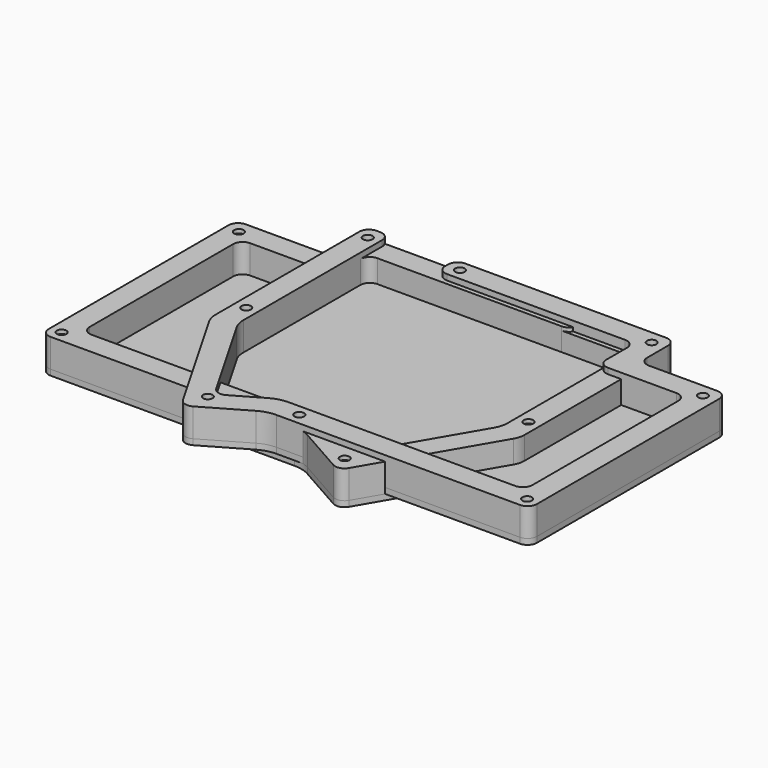
from build123d import *

# Parameters (mm, degrees)
EXTRUDE_DEPTH       = 13
SKETCH001_R         = 2.5
EXTRUDE001_DEPTH    = 3
SKETCH002_R         = 2.5
EXTRUDE002_DEPTH    = 15
MIRROREDSKETCH_R    = 2.5
EXTRUDE004_DEPTH    = 3
MIRROREDSKETCH001_R = 2.5
EXTRUDE005_DEPTH    = 15


with BuildPart() as extrude_body:
    # Sketch → Extrude (new body)
    with BuildSketch(Plane.XY):
        with BuildLine():
            Line((-130.49, 59.21), (-130.49, -59.21))
            ThreePointArc((-130.49, -59.21), (-129.025534, -62.745534), (-125.49, -64.21))
            Line((-125.49, -64.21), (2.885908, -64.21))
            ThreePointArc((11.622751, -66.512088), (7.403431, -64.795179), (2.885908, -64.21))
            Line((11.622751, -66.512088), (36.536967, -80.621035))
            ThreePointArc((36.536967, -80.621035), (40.306595, -81.096728), (43.3222, -78.785341))
            Line((43.3222, -78.785341), (79.515572, -16.598901))
            ThreePointArc((79.515572, -16.598901), (80.831144, -13.4462), (81.28, -10.059641))
            Line((81.28, -10.059641), (81.28, 81.44))
            ThreePointArc((81.28, 81.44), (79.815534, 84.975534), (76.28, 86.44))
            Line((76.28, 86.44), (-76.28, 86.44))
            ThreePointArc((-76.28, 86.44), (-79.815534, 84.975534), (-81.28, 81.44))
            Line((-81.28, 81.44), (-81.28, 69.21))
            ThreePointArc((-86.28, 64.21), (-82.744466, 65.674466), (-81.28, 69.21))
            Line((-86.28, 64.21), (-125.49, 64.21))
            ThreePointArc((-125.49, 64.21), (-129.025534, 62.745534), (-130.49, 59.21))
        make_face()
        with BuildLine():
            Line((69.28, 69.44), (69.28, -6.821793))
            ThreePointArc((67.515572, -13.361052), (68.831144, -10.208352), (69.28, -6.821793))
            Line((67.515572, -13.361052), (38.916228, -62.499646))
            ThreePointArc((32.130995, -64.335339), (35.900623, -64.811032), (38.916228, -62.499646))
            Line((14.784655, -54.512088), (32.130995, -64.335339))
            ThreePointArc((14.784655, -54.512088), (10.565334, -52.795179), (6.047812, -52.21))
            Line((-113.49, -52.21), (6.047812, -52.21))
            ThreePointArc((-118.49, -47.21), (-117.025534, -50.745534), (-113.49, -52.21))
            Line((-118.49, 47.21), (-118.49, -47.21))
            ThreePointArc((-113.49, 52.21), (-117.025534, 50.745534), (-118.49, 47.21))
            Line((-113.49, 52.21), (-74.28, 52.21))
            ThreePointArc((-74.28, 52.21), (-70.744466, 53.674466), (-69.28, 57.21))
            Line((-69.28, 69.44), (-69.28, 57.21))
            ThreePointArc((-64.28, 74.44), (-67.815534, 72.975534), (-69.28, 69.44))
            Line((-64.28, 74.44), (64.28, 74.44))
            ThreePointArc((69.28, 69.44), (67.815534, 72.975534), (64.28, 74.44))
        make_face(mode=Mode.SUBTRACT)
    extrude(amount=EXTRUDE_DEPTH)


with BuildPart() as extrude001:
    # Sketch001 → Extrude001 (new body)
    with BuildSketch(Plane.XY):
        with BuildLine():
            Line((-130.49, 59.21), (-130.49, -59.21))
            ThreePointArc((-130.49, -59.21), (-129.025534, -62.745534), (-125.49, -64.21))
            Line((-125.49, -64.21), (2.885908, -64.21))
            ThreePointArc((11.622751, -66.512088), (7.403431, -64.795179), (2.885908, -64.21))
            Line((11.622751, -66.512088), (36.536967, -80.621035))
            ThreePointArc((36.536967, -80.621035), (40.306595, -81.096728), (43.3222, -78.785341))
            Line((43.3222, -78.785341), (79.515572, -16.598901))
            ThreePointArc((79.515572, -16.598901), (80.831144, -13.4462), (81.28, -10.059641))
            Line((81.28, -10.059641), (81.28, 81.44))
            ThreePointArc((81.28, 81.44), (79.815534, 84.975534), (76.28, 86.44))
            Line((76.28, 86.44), (-76.28, 86.44))
            ThreePointArc((-76.28, 86.44), (-79.815534, 84.975534), (-81.28, 81.44))
            Line((-81.28, 81.44), (-81.28, 69.21))
            ThreePointArc((-86.28, 64.21), (-82.744466, 65.674466), (-81.28, 69.21))
            Line((-86.28, 64.21), (-125.49, 64.21))
            ThreePointArc((-125.49, 64.21), (-129.025534, 62.745534), (-130.49, 59.21))
        make_face()
        with Locations((-123.49, 57.21)):
            Circle(SKETCH001_R, mode=Mode.SUBTRACT)
        with Locations((-124.49, -58.21)):
            Circle(SKETCH001_R, mode=Mode.SUBTRACT)
        with Locations((-4.49, -58.21)):
            Circle(SKETCH001_R, mode=Mode.SUBTRACT)
        with Locations((36.585178, -73.175873)):
            Circle(SKETCH001_R, mode=Mode.SUBTRACT)
        with Locations((75.28, -0.56)):
            Circle(SKETCH001_R, mode=Mode.SUBTRACT)
        with Locations((75.28, 79.44)):
            Circle(SKETCH001_R, mode=Mode.SUBTRACT)
        with Locations((30.711217, 80.44)):
            Circle(SKETCH001_R, mode=Mode.SUBTRACT)
        with Locations((-74.28, 79.44)):
            Circle(SKETCH001_R, mode=Mode.SUBTRACT)
    extrude(amount=-EXTRUDE001_DEPTH)


with BuildPart() as extrude002:
    # Sketch002 → Extrude002 (new body)
    with BuildSketch(Plane.XY):
        with BuildLine():
            Line((69.28, 81.44), (69.28, -6.821793))
            ThreePointArc((67.515572, -13.361052), (68.831144, -10.208352), (69.28, -6.821793))
            Line((67.515572, -13.361052), (38.916228, -62.499646))
            ThreePointArc((32.130995, -64.335339), (35.900623, -64.811032), (38.916228, -62.499646))
            Line((14.784655, -54.512088), (32.130995, -64.335339))
            ThreePointArc((14.784655, -54.512088), (10.565334, -52.795179), (6.047812, -52.21))
            Line((-113.49, -52.21), (6.047812, -52.21))
            ThreePointArc((-118.49, -47.21), (-117.025534, -50.745534), (-113.49, -52.21))
            Line((-118.49, 47.21), (-118.49, -47.21))
            ThreePointArc((-113.49, 52.21), (-117.025534, 50.745534), (-118.49, 47.21))
            Line((-113.49, 52.21), (-74.28, 52.21))
            ThreePointArc((-74.28, 52.21), (-70.744466, 53.674466), (-69.28, 57.21))
            Line((-69.28, 69.44), (-69.28, 57.21))
            ThreePointArc((-64.28, 74.44), (-67.815534, 72.975534), (-69.28, 69.44))
            Line((-64.28, 74.44), (32.710022, 74.44))
            ThreePointArc((32.710022, 74.44), (36.245542, 75.904474), (37.71, 79.44))
            Line((37.71, 79.44), (37.71, 81.44))
            ThreePointArc((37.71, 81.44), (36.245534, 84.975534), (32.71, 86.44))
            Line((-76.28, 86.44), (32.71, 86.44))
            ThreePointArc((-76.28, 86.44), (-79.815534, 84.975534), (-81.28, 81.44))
            Line((-81.28, 81.44), (-81.28, 69.21))
            ThreePointArc((-86.28, 64.21), (-82.744466, 65.674466), (-81.28, 69.21))
            Line((-86.28, 64.21), (-125.49, 64.21))
            ThreePointArc((-125.49, 64.21), (-129.025534, 62.745534), (-130.49, 59.21))
            Line((-130.49, 59.21), (-130.49, -59.21))
            ThreePointArc((-130.49, -59.21), (-129.025534, -62.745534), (-125.49, -64.21))
            Line((-125.49, -64.21), (2.885908, -64.21))
            ThreePointArc((11.622751, -66.512088), (7.403431, -64.795179), (2.885908, -64.21))
            Line((11.622751, -66.512088), (36.536967, -80.621035))
            ThreePointArc((36.536967, -80.621035), (40.306595, -81.096728), (43.3222, -78.785341))
            Line((43.3222, -78.785341), (79.811267, -16.090847))
            ThreePointArc((79.811267, -16.090847), (80.906366, -13.466497), (81.28, -10.647479))
            Line((81.28, -10.647479), (81.28, 81.462521))
            ThreePointArc((81.28, 81.462521), (79.979333, 84.826289), (76.754025, 86.44))
            Line((76.754025, 86.44), (74.28, 86.44))
            ThreePointArc((74.28, 86.44), (70.744466, 84.975534), (69.28, 81.44))
        make_face()
        with Locations((75.28, 79.44)):
            Circle(SKETCH002_R, mode=Mode.SUBTRACT)
        with Locations((75.28, -0.56)):
            Circle(SKETCH002_R, mode=Mode.SUBTRACT)
        with Locations((36.585178, -73.175873)):
            Circle(SKETCH002_R, mode=Mode.SUBTRACT)
        with Locations((-124.49, -58.21)):
            Circle(SKETCH002_R, mode=Mode.SUBTRACT)
        with Locations((-4.49, -58.21)):
            Circle(SKETCH002_R, mode=Mode.SUBTRACT)
        with Locations((-123.49, 57.21)):
            Circle(SKETCH002_R, mode=Mode.SUBTRACT)
        with Locations((-74.28, 79.44)):
            Circle(SKETCH002_R, mode=Mode.SUBTRACT)
        with Locations((30.71, 80.44)):
            Circle(SKETCH002_R, mode=Mode.SUBTRACT)
    extrude(amount=EXTRUDE002_DEPTH)


with BuildPart() as extrude004:
    # MirroredSketch → Extrude004 (new body)
    with BuildSketch(Plane.XY):
        with BuildLine():
            Line((127.32, 60.005), (127.32, -60.005))
            ThreePointArc((122.32, -65.005), (125.855534, -63.540534), (127.32, -60.005))
            Line((122.32, -65.005), (-5.910023, -65.005))
            ThreePointArc((-5.910023, -65.005), (-10.498885, -65.609135), (-14.775023, -67.38037))
            Line((-14.775023, -67.38037), (-37.422033, -80.455627))
            ThreePointArc((-44.254779, -78.620958), (-41.21866, -80.95445), (-37.422033, -80.455627))
            Line((-44.254779, -78.620958), (-79.54514, -17.347965))
            ThreePointArc((-81.28, -10.859775), (-80.838798, -14.217838), (-79.54514, -17.347965))
            Line((-81.28, -10.859775), (-81.28, 83.815))
            ThreePointArc((-76.28, 88.815), (-79.815534, 87.350534), (-81.28, 83.815))
            Line((-76.28, 88.815), (76.28, 88.815))
            ThreePointArc((81.28, 83.815), (79.815534, 87.350534), (76.28, 88.815))
            Line((81.28, 83.815), (81.28, 70.005))
            ThreePointArc((81.28, 70.005), (82.744466, 66.469466), (86.28, 65.005))
            Line((86.28, 65.005), (122.32, 65.005))
            ThreePointArc((127.32, 60.005), (125.855534, 63.540534), (122.32, 65.005))
        make_face()
        with Locations((120.32, 58.005)):
            Circle(MIRROREDSKETCH_R, mode=Mode.SUBTRACT)
        with Locations((121.32, -59.005)):
            Circle(MIRROREDSKETCH_R, mode=Mode.SUBTRACT)
        with Locations((1.32, -59.005)):
            Circle(MIRROREDSKETCH_R, mode=Mode.SUBTRACT)
        with Locations((-38.194107, -69.844124)):
            Circle(MIRROREDSKETCH_R, mode=Mode.SUBTRACT)
        with Locations((-75.28, 1.815)):
            Circle(MIRROREDSKETCH_R, mode=Mode.SUBTRACT)
        with Locations((-75.28, 81.815)):
            Circle(MIRROREDSKETCH_R, mode=Mode.SUBTRACT)
        with Locations((-27.53, 82.815)):
            Circle(MIRROREDSKETCH_R, mode=Mode.SUBTRACT)
        with Locations((74.28, 81.815)):
            Circle(MIRROREDSKETCH_R, mode=Mode.SUBTRACT)
    extrude(amount=EXTRUDE004_DEPTH)


with BuildPart() as extrude005:
    # MirroredSketch001 → Extrude005 (new body)
    with BuildSketch(Plane.XY.offset(3)):
        with BuildLine():
            Line((-69.28, 71.815), (-69.28, -7.651127))
            ThreePointArc((-69.28, -7.651127), (-68.838798, -11.00919), (-67.54514, -14.139318))
            Line((-67.54514, -14.139318), (-39.851571, -62.222358))
            ThreePointArc((-39.851571, -62.222358), (-36.815452, -64.55585), (-33.018825, -64.057027))
            Line((-17.990413, -55.38037), (-33.018825, -64.057027))
            ThreePointArc((-9.125413, -53.005), (-13.714275, -53.609135), (-17.990413, -55.38037))
            Line((110.32, -53.005), (-9.125413, -53.005))
            ThreePointArc((110.32, -53.005), (113.855534, -51.540534), (115.32, -48.005))
            Line((115.32, 48.005), (115.32, -48.005))
            ThreePointArc((115.32, 48.005), (113.855534, 51.540534), (110.32, 53.005))
            Line((110.32, 53.005), (74.28, 53.005))
            ThreePointArc((69.28, 58.005), (70.744466, 54.469466), (74.28, 53.005))
            Line((69.28, 71.815), (69.28, 58.005))
            ThreePointArc((69.28, 71.815), (67.815534, 75.350534), (64.28, 76.815))
            Line((64.28, 76.815), (-29.53, 76.815))
            ThreePointArc((-34.53, 81.815), (-33.065534, 78.279466), (-29.53, 76.815))
            Line((-34.53, 81.815), (-34.53, 83.815))
            ThreePointArc((-29.53, 88.815), (-33.065534, 87.350534), (-34.53, 83.815))
            Line((-29.53, 88.815), (76.28, 88.815))
            ThreePointArc((81.28, 83.815), (79.815534, 87.350534), (76.28, 88.815))
            Line((81.28, 83.815), (81.28, 70.005))
            ThreePointArc((81.28, 70.005), (82.744466, 66.469466), (86.28, 65.005))
            Line((86.28, 65.005), (122.32, 65.005))
            ThreePointArc((127.32, 60.005), (125.855534, 63.540534), (122.32, 65.005))
            Line((127.32, 60.005), (127.32, -60.005))
            ThreePointArc((122.32, -65.005), (125.855534, -63.540534), (127.32, -60.005))
            Line((122.32, -65.005), (-5.910023, -65.005))
            ThreePointArc((-5.910023, -65.005), (-10.498885, -65.609135), (-14.775023, -67.38037))
            Line((-14.775023, -67.38037), (-37.422033, -80.455627))
            ThreePointArc((-44.254779, -78.620958), (-41.21866, -80.95445), (-37.422033, -80.455627))
            Line((-44.254779, -78.620958), (-79.54514, -17.347965))
            ThreePointArc((-81.28, -10.859775), (-80.838798, -14.217838), (-79.54514, -17.347965))
            Line((-81.28, -10.859775), (-81.28, 83.815))
            ThreePointArc((-76.28, 88.815), (-79.815534, 87.350534), (-81.28, 83.815))
            Line((-76.28, 88.815), (-74.28, 88.815))
            ThreePointArc((-69.28, 83.815), (-70.744466, 87.350534), (-74.28, 88.815))
            Line((-69.28, 71.815), (-69.28, 83.815))
        make_face()
        with Locations((120.32, 58.005)):
            Circle(MIRROREDSKETCH001_R, mode=Mode.SUBTRACT)
        with Locations((121.32, -59.005)):
            Circle(MIRROREDSKETCH001_R, mode=Mode.SUBTRACT)
        with Locations((1.32, -59.005)):
            Circle(MIRROREDSKETCH001_R, mode=Mode.SUBTRACT)
        with Locations((-38.194107, -69.844124)):
            Circle(MIRROREDSKETCH001_R, mode=Mode.SUBTRACT)
        with Locations((-75.28, 1.815)):
            Circle(MIRROREDSKETCH001_R, mode=Mode.SUBTRACT)
        with Locations((-75.28, 81.815)):
            Circle(MIRROREDSKETCH001_R, mode=Mode.SUBTRACT)
        with Locations((-27.53, 82.815)):
            Circle(MIRROREDSKETCH001_R, mode=Mode.SUBTRACT)
        with Locations((74.28, 81.815)):
            Circle(MIRROREDSKETCH001_R, mode=Mode.SUBTRACT)
    extrude(amount=EXTRUDE005_DEPTH)


solid = Compound([extrude_body.part, extrude001.part, extrude002.part, extrude004.part, extrude005.part])
